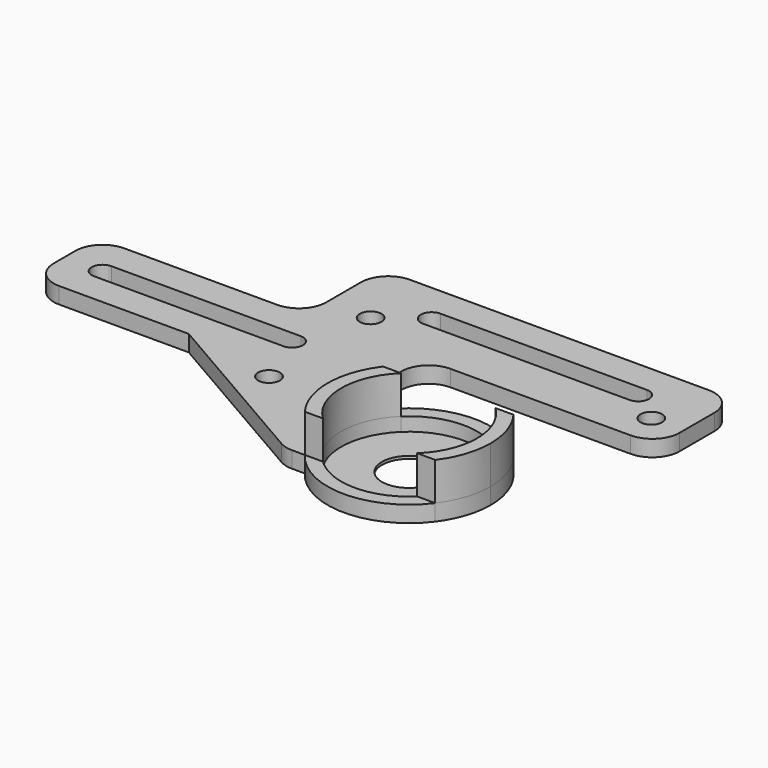
from build123d import *

# Parameters (mm, degrees)
F0_R     = 2
F0_W     = 21.8627425395
F0_H     = 3
F2_DEPTH = 3
F3_DEPTH = 2.5
F4_DEPTH = 3.001
F5_DEPTH = 3
F6_R     = 5
F7_DEPTH = 7


with BuildPart() as f2:
    # F0 (on Top) → F2 (new body)
    with BuildSketch(Plane.XY):
        Polygon((8.1372574605, 15), (-30, 15), (-30, 0), (-1.1483471663, 0), (30, 0), (30, 15), align=None)
        with BuildLine():
            ThreePointArc((-23, 5.5), (-25, 7.5), (-23, 9.5))
            Line((-23, 9.5), (11.8569275364, 9.5))
            ThreePointArc((11.8569275364, 9.5), (13.2711410988, 8.9142135624), (13.8569275364, 7.5))
            ThreePointArc((13.8569275364, 7.5), (13.2711410988, 6.0857864376), (11.8569275364, 5.5))
            Line((11.8569275364, 5.5), (-23, 5.5))
        make_face(mode=Mode.SUBTRACT)
        Polygon((30, 0), (-1.1483471663, 0), (31.7223609335, -18.9953175569), (31.7223609335, -0.9953175569), align=None)
        with Locations((16.1372574605, -3.1607300043)):
            Circle(F0_R, mode=Mode.SUBTRACT)
        with BuildLine():
            Line((8.1372574605, 33), (8.1372574605, 18))
            Line((8.1372574605, 18), (30, 18))
            Line((30, 18), (40.6372574605, 18))
            Line((40.6372574605, 18), (40.6372574605, 23.5))
            Line((40.6372574605, 23.5), (23.1372574605, 23.5))
            ThreePointArc((23.1372574605, 23.5), (21.1372574605, 25.5), (23.1372574605, 27.5))
            Line((23.1372574605, 27.5), (40.6372574605, 27.5))
            Line((40.6372574605, 27.5), (40.6372574605, 33))
            Line((40.6372574605, 33), (8.1372574605, 33))
        make_face()
        with Locations((16.1372574605, 20.216524601)):
            Circle(F0_R, mode=Mode.SUBTRACT)
        with BuildLine():
            Line((40.6372574605, 23.5), (40.6372574605, 18))
            Line((40.6372574605, 18), (73.1372574605, 18))
            Line((73.1372574605, 18), (73.1372574605, 33))
            Line((73.1372574605, 33), (40.6372574605, 33))
            Line((40.6372574605, 33), (40.6372574605, 27.5))
            Line((40.6372574605, 27.5), (61.1372574605, 27.5))
            ThreePointArc((61.1372574605, 27.5), (62.5514710229, 26.9142135624), (63.1372574605, 25.5))
            ThreePointArc((63.1372574605, 25.5), (62.5514710229, 24.0857864376), (61.1372574605, 23.5))
            Line((61.1372574605, 23.5), (40.6372574605, 23.5))
        make_face()
        with Locations((67.1372574605, 21.0141353309)):
            Circle(F0_R, mode=Mode.SUBTRACT)
        with Locations((19.0686287303, 16.5)):
            Rectangle(F0_W, F0_H)
        with BuildLine():
            Line((31.7223609335, -0.9953175569), (31.7223609335, -18.9953175569))
            Line((31.7223609335, -18.9953175569), (35.3926290005, -18.9953175569))
            ThreePointArc((35.3926290005, -18.9953175569), (32.3926290005, -9.9953175569), (35.3926290005, -0.9953175569))
            Line((35.3926290005, -0.9953175569), (31.7223609335, -0.9953175569))
        make_face()
        with BuildLine():
            ThreePointArc((35.3926290005, -0.9953175569), (32.3926290005, -9.9953175569), (35.3926290005, -18.9953175569))
            Line((35.3926290005, -18.9953175569), (38.717953214, -18.9953175569))
            ThreePointArc((38.717953214, -18.9953175569), (34.8926290005, -9.9953175569), (38.717953214, -0.9953175569))
            Line((38.717953214, -0.9953175569), (35.3926290005, -0.9953175569))
        make_face()
        with BuildLine():
            ThreePointArc((38.717953214, -0.9953175569), (34.8926290005, -9.9953175569), (38.717953214, -18.9953175569))
            Line((38.717953214, -18.9953175569), (47.3926290005, -18.9953175569))
            Line((47.3926290005, -18.9953175569), (47.3926290005, -0.9953175569))
            Line((47.3926290005, -0.9953175569), (38.717953214, -0.9953175569))
        make_face()
        with BuildLine():
            ThreePointArc((56.0673047869, -0.9953175569), (47.3926290005, 2.5046824431), (38.717953214, -0.9953175569))
            Line((38.717953214, -0.9953175569), (47.3926290005, -0.9953175569))
            Line((47.3926290005, -0.9953175569), (56.0673047869, -0.9953175569))
        make_face()
        with BuildLine():
            Line((47.3926290005, -18.9953175569), (56.0673047869, -18.9953175569))
            ThreePointArc((56.0673047869, -18.9953175569), (58.8966162947, -14.8849265734), (59.8926290005, -9.9953175569))
            ThreePointArc((59.8926290005, -9.9953175569), (58.8966162947, -5.1057085403), (56.0673047869, -0.9953175569))
            Line((56.0673047869, -0.9953175569), (47.3926290005, -0.9953175569))
            Line((47.3926290005, -0.9953175569), (47.3926290005, -18.9953175569))
        make_face()
        with BuildLine():
            Line((56.0673047869, -18.9953175569), (59.3926290005, -18.9953175569))
            ThreePointArc((59.3926290005, -18.9953175569), (61.6228784712, -14.7387340471), (62.3926290005, -9.9953175569))
            ThreePointArc((62.3926290005, -9.9953175569), (61.6228784712, -5.2519010666), (59.3926290005, -0.9953175569))
            Line((59.3926290005, -0.9953175569), (56.0673047869, -0.9953175569))
            ThreePointArc((56.0673047869, -0.9953175569), (58.8966162947, -5.1057085403), (59.8926290005, -9.9953175569))
            ThreePointArc((59.8926290005, -9.9953175569), (58.8966162947, -14.8849265734), (56.0673047869, -18.9953175569))
        make_face()
        with BuildLine():
            Line((38.717953214, -18.9953175569), (35.3926290005, -18.9953175569))
            ThreePointArc((35.3926290005, -18.9953175569), (47.3926290005, -24.9953175569), (59.3926290005, -18.9953175569))
            Line((59.3926290005, -18.9953175569), (56.0673047869, -18.9953175569))
            ThreePointArc((56.0673047869, -18.9953175569), (47.3926290005, -22.4953175569), (38.717953214, -18.9953175569))
        make_face()
        with BuildLine():
            Line((47.3926290005, -18.9953175569), (38.717953214, -18.9953175569))
            ThreePointArc((38.717953214, -18.9953175569), (47.3926290005, -22.4953175569), (56.0673047869, -18.9953175569))
            Line((56.0673047869, -18.9953175569), (47.3926290005, -18.9953175569))
        make_face()
        with BuildLine():
            ThreePointArc((59.3926290005, -0.9953175569), (47.3926290005, 5.0046824431), (35.3926290005, -0.9953175569))
            Line((35.3926290005, -0.9953175569), (38.717953214, -0.9953175569))
            ThreePointArc((38.717953214, -0.9953175569), (47.3926290005, 2.5046824431), (56.0673047869, -0.9953175569))
            Line((56.0673047869, -0.9953175569), (59.3926290005, -0.9953175569))
        make_face()
        with BuildLine():
            ThreePointArc((-23, 9.5), (-21.5857864376, 8.9142135624), (-21, 7.5))
            ThreePointArc((-21, 7.5), (-21.5857864376, 6.0857864376), (-23, 5.5))
            Line((-23, 5.5), (11.8569275364, 5.5))
            ThreePointArc((11.8569275364, 5.5), (9.8569275364, 7.5), (11.8569275364, 9.5))
            Line((11.8569275364, 9.5), (-23, 9.5))
        make_face()
        with BuildLine():
            Line((11.8569275364, 7.5), (11.8569275364, 9.5))
            ThreePointArc((11.8569275364, 9.5), (9.8569275364, 7.5), (11.8569275364, 5.5))
            Line((11.8569275364, 5.5), (11.8569275364, 7.5))
        make_face()
        with BuildLine():
            ThreePointArc((13.8569275364, 7.5), (13.2711410988, 8.9142135624), (11.8569275364, 9.5))
            Line((11.8569275364, 9.5), (11.8569275364, 7.5))
            Line((11.8569275364, 7.5), (11.8569275364, 5.5))
            ThreePointArc((11.8569275364, 5.5), (13.2711410988, 6.0857864376), (13.8569275364, 7.5))
        make_face()
        with BuildLine():
            Line((-23, 7.5), (-23, 9.5))
            ThreePointArc((-23, 9.5), (-25, 7.5), (-23, 5.5))
            Line((-23, 5.5), (-23, 7.5))
        make_face()
        with BuildLine():
            ThreePointArc((-23, 5.5), (-21.5857864376, 6.0857864376), (-21, 7.5))
            ThreePointArc((-21, 7.5), (-21.5857864376, 8.9142135624), (-23, 9.5))
            Line((-23, 9.5), (-23, 7.5))
            Line((-23, 7.5), (-23, 5.5))
        make_face()
        with BuildLine():
            ThreePointArc((23.1372574605, 27.5), (21.1372574605, 25.5), (23.1372574605, 23.5))
            Line((23.1372574605, 23.5), (23.1372574605, 25.5))
            Line((23.1372574605, 25.5), (23.1372574605, 27.5))
        make_face()
        with BuildLine():
            Line((23.1372574605, 25.5), (23.1372574605, 23.5))
            ThreePointArc((23.1372574605, 23.5), (24.5514710229, 24.0857864376), (25.1372574605, 25.5))
            ThreePointArc((25.1372574605, 25.5), (24.5514710229, 26.9142135624), (23.1372574605, 27.5))
            Line((23.1372574605, 27.5), (23.1372574605, 25.5))
        make_face()
        with BuildLine():
            Line((23.1372574605, 23.5), (40.6372574605, 23.5))
            Line((40.6372574605, 23.5), (40.6372574605, 25.5))
            Line((40.6372574605, 25.5), (40.6372574605, 27.5))
            Line((40.6372574605, 27.5), (23.1372574605, 27.5))
            ThreePointArc((23.1372574605, 27.5), (24.5514710229, 26.9142135624), (25.1372574605, 25.5))
            ThreePointArc((25.1372574605, 25.5), (24.5514710229, 24.0857864376), (23.1372574605, 23.5))
        make_face()
        with BuildLine():
            Line((40.6372574605, 25.5), (40.6372574605, 23.5))
            Line((40.6372574605, 23.5), (61.1372574605, 23.5))
            ThreePointArc((61.1372574605, 23.5), (59.1372574605, 25.5), (61.1372574605, 27.5))
            Line((61.1372574605, 27.5), (40.6372574605, 27.5))
            Line((40.6372574605, 27.5), (40.6372574605, 25.5))
        make_face()
        with BuildLine():
            ThreePointArc((61.1372574605, 27.5), (59.1372574605, 25.5), (61.1372574605, 23.5))
            Line((61.1372574605, 23.5), (61.1372574605, 25.5))
            Line((61.1372574605, 25.5), (61.1372574605, 27.5))
        make_face()
        with BuildLine():
            Line((61.1372574605, 25.5), (61.1372574605, 23.5))
            ThreePointArc((61.1372574605, 23.5), (62.5514710229, 24.0857864376), (63.1372574605, 25.5))
            ThreePointArc((63.1372574605, 25.5), (62.5514710229, 26.9142135624), (61.1372574605, 27.5))
            Line((61.1372574605, 27.5), (61.1372574605, 25.5))
        make_face()
        with BuildLine():
            Line((8.1372574605, 33), (8.1372574605, 18))
            Line((8.1372574605, 18), (30, 18))
            Line((30, 18), (40.6372574605, 18))
            Line((40.6372574605, 18), (40.6372574605, 23.5))
            Line((40.6372574605, 23.5), (23.1372574605, 23.5))
            ThreePointArc((23.1372574605, 23.5), (21.1372574605, 25.5), (23.1372574605, 27.5))
            Line((23.1372574605, 27.5), (40.6372574605, 27.5))
            Line((40.6372574605, 27.5), (40.6372574605, 33))
            Line((40.6372574605, 33), (8.1372574605, 33))
        make_face()
        with Locations((16.1372574605, 20.216524601)):
            Circle(F0_R, mode=Mode.SUBTRACT)
        Polygon((30, 18), (30, 15), (73.1372574605, 15), (73.1372574605, 18), (40.6372574605, 18), align=None)
    extrude(amount=-F2_DEPTH)

    # F0 (on Top) → F3 (cut)
    with BuildSketch(Plane.XY):
        with BuildLine():
            ThreePointArc((56.0673047869, -0.9953175569), (47.3926290005, 2.5046824431), (38.717953214, -0.9953175569))
            Line((38.717953214, -0.9953175569), (47.3926290005, -0.9953175569))
            Line((47.3926290005, -0.9953175569), (56.0673047869, -0.9953175569))
        make_face()
        with BuildLine():
            ThreePointArc((38.717953214, -0.9953175569), (34.8926290005, -9.9953175569), (38.717953214, -18.9953175569))
            Line((38.717953214, -18.9953175569), (47.3926290005, -18.9953175569))
            Line((47.3926290005, -18.9953175569), (47.3926290005, -0.9953175569))
            Line((47.3926290005, -0.9953175569), (38.717953214, -0.9953175569))
        make_face()
        with BuildLine():
            Line((47.3926290005, -18.9953175569), (56.0673047869, -18.9953175569))
            ThreePointArc((56.0673047869, -18.9953175569), (58.8966162947, -14.8849265734), (59.8926290005, -9.9953175569))
            ThreePointArc((59.8926290005, -9.9953175569), (58.8966162947, -5.1057085403), (56.0673047869, -0.9953175569))
            Line((56.0673047869, -0.9953175569), (47.3926290005, -0.9953175569))
            Line((47.3926290005, -0.9953175569), (47.3926290005, -18.9953175569))
        make_face()
        with BuildLine():
            Line((47.3926290005, -18.9953175569), (38.717953214, -18.9953175569))
            ThreePointArc((38.717953214, -18.9953175569), (47.3926290005, -22.4953175569), (56.0673047869, -18.9953175569))
            Line((56.0673047869, -18.9953175569), (47.3926290005, -18.9953175569))
        make_face()
    extrude(amount=-F3_DEPTH, mode=Mode.SUBTRACT)

    # F1 (on face) → F4 (cut, through all)
    with BuildSketch(Plane.XY):
        with BuildLine():
            Line((47.3926290005, -14.9953175569), (47.3926290005, -4.9953175569))
            ThreePointArc((47.3926290005, -4.9953175569), (42.3926290005, -9.9953175569), (47.3926290005, -14.9953175569))
        make_face()
        with BuildLine():
            ThreePointArc((47.3926290005, -14.9953175569), (50.9281629064, -13.5308514628), (52.3926290005, -9.9953175569))
            ThreePointArc((52.3926290005, -9.9953175569), (50.9281629064, -6.459783651), (47.3926290005, -4.9953175569))
            Line((47.3926290005, -4.9953175569), (47.3926290005, -14.9953175569))
        make_face()
    extrude(amount=-F4_DEPTH, mode=Mode.SUBTRACT)

    # F0 (on Top) → F5 (cut, through all)
    with BuildSketch(Plane.XY):
        with BuildLine():
            ThreePointArc((23.1372574605, 27.5), (21.1372574605, 25.5), (23.1372574605, 23.5))
            Line((23.1372574605, 23.5), (23.1372574605, 25.5))
            Line((23.1372574605, 25.5), (23.1372574605, 27.5))
        make_face()
        with BuildLine():
            Line((23.1372574605, 25.5), (23.1372574605, 23.5))
            ThreePointArc((23.1372574605, 23.5), (24.5514710229, 24.0857864376), (25.1372574605, 25.5))
            ThreePointArc((25.1372574605, 25.5), (24.5514710229, 26.9142135624), (23.1372574605, 27.5))
            Line((23.1372574605, 27.5), (23.1372574605, 25.5))
        make_face()
        with BuildLine():
            Line((23.1372574605, 23.5), (40.6372574605, 23.5))
            Line((40.6372574605, 23.5), (40.6372574605, 25.5))
            Line((40.6372574605, 25.5), (40.6372574605, 27.5))
            Line((40.6372574605, 27.5), (23.1372574605, 27.5))
            ThreePointArc((23.1372574605, 27.5), (24.5514710229, 26.9142135624), (25.1372574605, 25.5))
            ThreePointArc((25.1372574605, 25.5), (24.5514710229, 24.0857864376), (23.1372574605, 23.5))
        make_face()
        with BuildLine():
            Line((40.6372574605, 25.5), (40.6372574605, 23.5))
            Line((40.6372574605, 23.5), (61.1372574605, 23.5))
            ThreePointArc((61.1372574605, 23.5), (59.1372574605, 25.5), (61.1372574605, 27.5))
            Line((61.1372574605, 27.5), (40.6372574605, 27.5))
            Line((40.6372574605, 27.5), (40.6372574605, 25.5))
        make_face()
        with BuildLine():
            ThreePointArc((61.1372574605, 27.5), (59.1372574605, 25.5), (61.1372574605, 23.5))
            Line((61.1372574605, 23.5), (61.1372574605, 25.5))
            Line((61.1372574605, 25.5), (61.1372574605, 27.5))
        make_face()
        with BuildLine():
            Line((61.1372574605, 25.5), (61.1372574605, 23.5))
            ThreePointArc((61.1372574605, 23.5), (62.5514710229, 24.0857864376), (63.1372574605, 25.5))
            ThreePointArc((63.1372574605, 25.5), (62.5514710229, 26.9142135624), (61.1372574605, 27.5))
            Line((61.1372574605, 27.5), (61.1372574605, 25.5))
        make_face()
        with BuildLine():
            ThreePointArc((13.8569275364, 7.5), (13.2711410988, 8.9142135624), (11.8569275364, 9.5))
            Line((11.8569275364, 9.5), (11.8569275364, 7.5))
            Line((11.8569275364, 7.5), (11.8569275364, 5.5))
            ThreePointArc((11.8569275364, 5.5), (13.2711410988, 6.0857864376), (13.8569275364, 7.5))
        make_face()
        with BuildLine():
            Line((11.8569275364, 7.5), (11.8569275364, 9.5))
            ThreePointArc((11.8569275364, 9.5), (9.8569275364, 7.5), (11.8569275364, 5.5))
            Line((11.8569275364, 5.5), (11.8569275364, 7.5))
        make_face()
        with BuildLine():
            ThreePointArc((-23, 9.5), (-21.5857864376, 8.9142135624), (-21, 7.5))
            ThreePointArc((-21, 7.5), (-21.5857864376, 6.0857864376), (-23, 5.5))
            Line((-23, 5.5), (11.8569275364, 5.5))
            ThreePointArc((11.8569275364, 5.5), (9.8569275364, 7.5), (11.8569275364, 9.5))
            Line((11.8569275364, 9.5), (-23, 9.5))
        make_face()
        with BuildLine():
            ThreePointArc((-23, 5.5), (-21.5857864376, 6.0857864376), (-21, 7.5))
            ThreePointArc((-21, 7.5), (-21.5857864376, 8.9142135624), (-23, 9.5))
            Line((-23, 9.5), (-23, 7.5))
            Line((-23, 7.5), (-23, 5.5))
        make_face()
        with BuildLine():
            Line((-23, 7.5), (-23, 9.5))
            ThreePointArc((-23, 9.5), (-25, 7.5), (-23, 5.5))
            Line((-23, 5.5), (-23, 7.5))
        make_face()
    extrude(amount=-F5_DEPTH, mode=Mode.SUBTRACT)

    # F6
    f6_edges = [f2.edges().sort_by_distance(p)[0] for p in [
        (8.137257, 33, -1.5),
        (-30, 15, -1.5),
        (-30, 0, -1.5),
        (31.722361, -18.995318, -1.5),
        (73.137257, 33, -1.5),
        (73.137257, 15, -1.5),
        (30, 15, -1.5),
        (8.137257, 15, -1.5),
    ]]
    fillet(f6_edges, radius=F6_R)

    # F0 (on Top) → F7 (join)
    with BuildSketch(Plane.XY):
        with BuildLine():
            Line((56.0673047869, -18.9953175569), (59.3926290005, -18.9953175569))
            ThreePointArc((59.3926290005, -18.9953175569), (61.6228784712, -14.7387340471), (62.3926290005, -9.9953175569))
            ThreePointArc((62.3926290005, -9.9953175569), (61.6228784712, -5.2519010666), (59.3926290005, -0.9953175569))
            Line((59.3926290005, -0.9953175569), (56.0673047869, -0.9953175569))
            ThreePointArc((56.0673047869, -0.9953175569), (58.8966162947, -5.1057085403), (59.8926290005, -9.9953175569))
            ThreePointArc((59.8926290005, -9.9953175569), (58.8966162947, -14.8849265734), (56.0673047869, -18.9953175569))
        make_face()
        with BuildLine():
            ThreePointArc((35.3926290005, -0.9953175569), (32.3926290005, -9.9953175569), (35.3926290005, -18.9953175569))
            Line((35.3926290005, -18.9953175569), (38.717953214, -18.9953175569))
            ThreePointArc((38.717953214, -18.9953175569), (34.8926290005, -9.9953175569), (38.717953214, -0.9953175569))
            Line((38.717953214, -0.9953175569), (35.3926290005, -0.9953175569))
        make_face()
    extrude(amount=F7_DEPTH)


solid = f2.part
